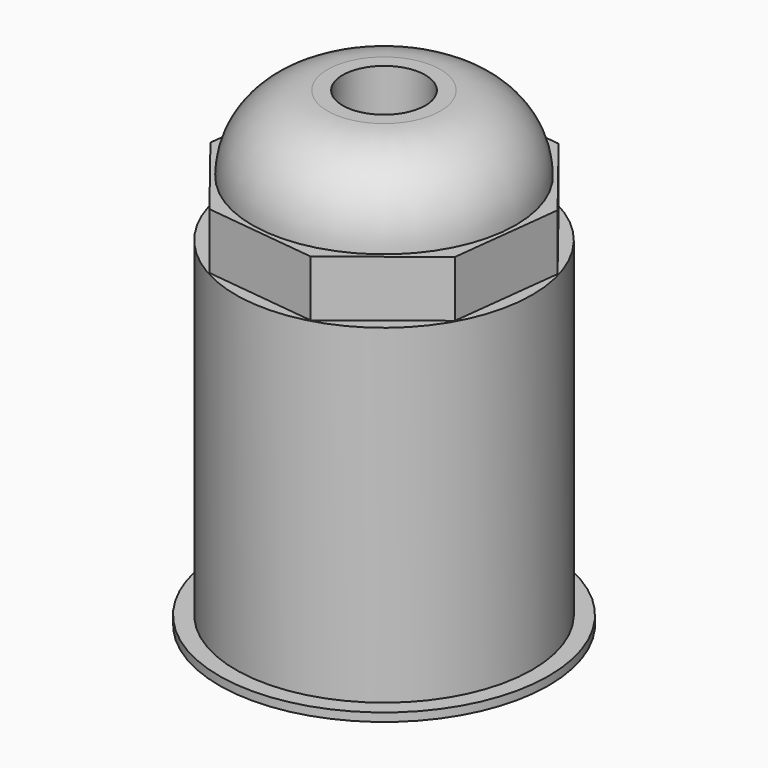
from build123d import *

# Parameters (mm, degrees)
F0_R     = 4.491706
F0_R_2   = 1.251915
F1_DEPTH = 9.99998
F0_R_3   = 4.993585
F2_DEPTH = 0.254
F3_R     = 3.99486
F3_R_2   = 1.251915
F4_DEPTH = 3.99796
F5_R     = 2.286
F6_DEPTH = 1.7018


with BuildPart() as f1:
    # F0 (on Top) → F1 (new body)
    with BuildSketch(Plane.XY):
        Circle(F0_R)
        Circle(F0_R_2, mode=Mode.SUBTRACT)
    extrude(amount=F1_DEPTH)

    # F0 (on Top) → F2 (join)
    with BuildSketch(Plane.XY):
        Circle(F0_R_3)
        Circle(F0_R, mode=Mode.SUBTRACT)
    extrude(amount=-F2_DEPTH)


with BuildPart() as f4:
    # F3 (on face) → F4 (new body)
    with BuildSketch(Plane.XY.offset(9.99998)):
        Circle(F3_R)
        Circle(F3_R_2, mode=Mode.SUBTRACT)
    extrude(amount=F4_DEPTH)

    # F5
    f5_edges = [f4.edges().sort_by_distance(p)[0] for p in [
        (-3.99486, 0, 13.99794),
    ]]
    fillet(f5_edges, radius=F5_R)


with BuildPart() as f6:
    # F3 (on face) → F6 (new body)
    with BuildSketch(Plane.XY.offset(9.99998)):
        Polygon((3.889913, -2.178242), (4.290833, 1.210334), (2.178242, 3.889913), (-1.210334, 4.290833), (-3.889913, 2.178242), (-4.290833, -1.210334), (-2.178242, -3.889913), (1.210334, -4.290833), align=None)
        Circle(F3_R, mode=Mode.SUBTRACT)
    extrude(amount=F6_DEPTH)


solid = Compound([f1.part, f4.part, f6.part])
